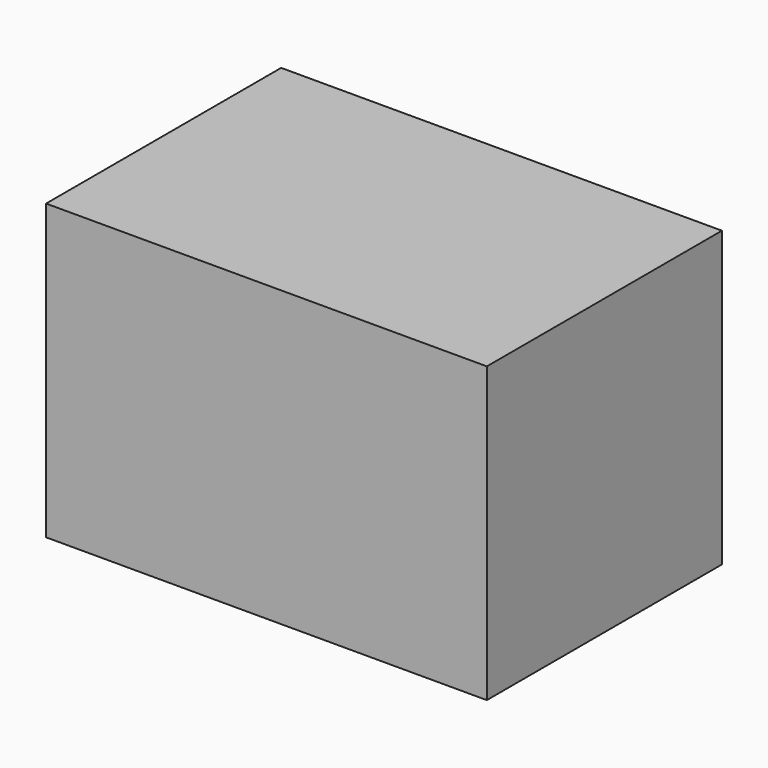
from build123d import *

# Parameters (mm, degrees)
F0_W     = 12.7
F0_H     = 25.4
F0_H_2   = 12.7
F1_DEPTH = 25.4


with BuildPart() as f1:
    # F0 (on Front) → F1 (new body)
    with BuildSketch(Plane.XZ):
        with Locations((6.35, 12.7)):
            Rectangle(F0_W, F0_H)
        Polygon((12.7, 25.4), (12.7, 0), (25.4, 0), (25.4, 12.7), (38.1, 12.7), (38.1, 25.4), align=None)
        with Locations((31.75, 6.35)):
            Rectangle(F0_W, F0_H_2)
    extrude(amount=-F1_DEPTH)


solid = f1.part
